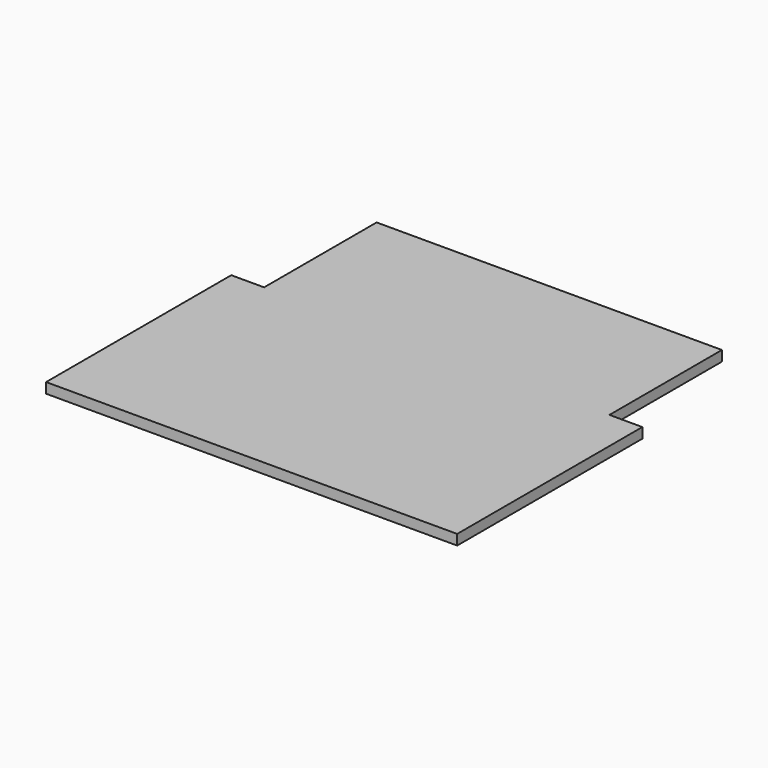
from build123d import *

# Parameters (mm, degrees)
F0_W     = 1000
F0_H     = 905
F1_DEPTH = 25
F2_W     = 80
F2_H     = 342
F3_DEPTH = 25


with BuildPart() as f1:
    # F0 (on Top) → F1 (new body)
    with BuildSketch(Plane.XY):
        with Locations((0, 452.5)):
            Rectangle(F0_W, F0_H)
    extrude(amount=-F1_DEPTH)

    # F2 (on face) → F3 (cut)
    with BuildSketch(Plane.XY):
        with Locations((-460, 734)):
            Rectangle(F2_W, F2_H)
        with Locations((460, 734)):
            Rectangle(F2_W, F2_H)
    extrude(amount=-F3_DEPTH, mode=Mode.SUBTRACT)


solid = f1.part
